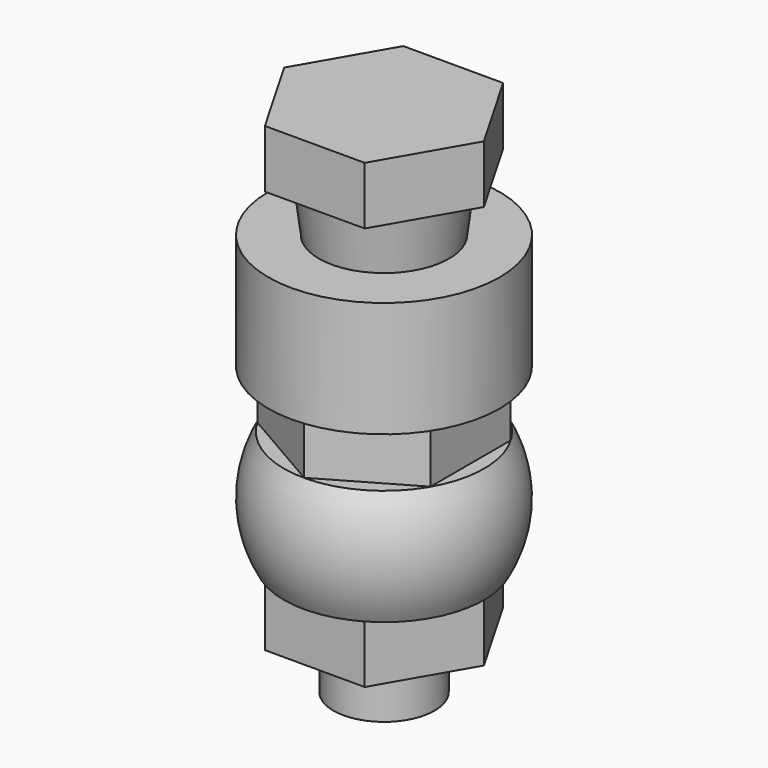
from build123d import *

# Parameters (mm, degrees)
F4_R      = 7.9375
F5_DEPTH  = 6.35
F8_R      = 6.0326439732
F9_DEPTH  = 6.35
F10_R     = 5.55625
F11_DEPTH = 6.35


with BuildPart() as f1:
    # F0 (on Front) → F1 (revolve)
    with BuildSketch(Plane.XZ):
        Polygon((-6.0326439732, -6.35), (-7.14375, 6.35), (-12.7, 6.35), (-12.7, -6.35), align=None)
    revolve(axis=Axis((0, 0, 0.0013147309), (0, 0, -1)))


with BuildPart() as f3:
    # F2 (on Front) → F3 (revolve)
    with BuildSketch(Plane.XZ):
        Polygon((0, 12.5893847921), (-7.9375, 12.5893847921), (-5.55625, -6.1287695843), (-5.55625, -37.8787695843), (0, -37.8787695843), align=None)
    revolve(axis=Axis((0, 0, -12.6446923961), (0, 0, 1)))

    # F4 (on face) → F5 (join)
    with BuildSketch(Plane.XY.offset(12.5893847921)):
        Polygon((10.9696551146, 0), (5.4848275573, 9.5), (-5.4848275573, 9.5), (-10.9696551146, 0), (-5.4848275573, -9.5), (5.4848275573, -9.5), align=None)
        Circle(F4_R, mode=Mode.SUBTRACT)
        Circle(F4_R)
    extrude(amount=F5_DEPTH)


with BuildPart() as f7:
    # F6 (on Front) → F7 (revolve)
    with BuildSketch(Plane.XZ):
        with BuildLine():
            Line((-5.55625, -25.4), (-5.55625, -12.7))
            Line((-5.55625, -12.7), (-10.9985226281, -12.7))
            ThreePointArc((-10.9985226281, -12.7), (-12.7, -19.05), (-10.9985226281, -25.4))
            Line((-10.9985226281, -25.4), (-5.55625, -25.4))
        make_face()
    revolve(axis=Axis((0, 0, 0.0013147309), (0, 0, -1)))


with BuildPart() as f9:
    # F8 (on face) → F9 (new body)
    with BuildSketch(Plane(origin=(0, 0, -6.35), x_dir=(1, 0, 0), z_dir=(0, 0, -1))):
        Polygon((9.5, 5.4848275573), (0, 10.9696551146), (-9.5, 5.4848275573), (-9.5, -5.4848275573), (0, -10.9696551146), (9.5, -5.4848275573), align=None)
        Circle(F8_R, mode=Mode.SUBTRACT)
    extrude(amount=F9_DEPTH)


with BuildPart() as f11:
    # F10 (on face) → F11 (new body)
    with BuildSketch(Plane(origin=(0, 0, -25.4), x_dir=(1, 0, 0), z_dir=(0, 0, -1))):
        Polygon((5.4848275573, 9.5), (-5.4848275573, 9.5), (-10.9696551146, 0), (-5.4848275573, -9.5), (5.4848275573, -9.5), (10.9696551146, 0), align=None)
        Circle(F10_R, mode=Mode.SUBTRACT)
    extrude(amount=F11_DEPTH)


solid = Compound([f1.part, f3.part, f7.part, f9.part, f11.part])
